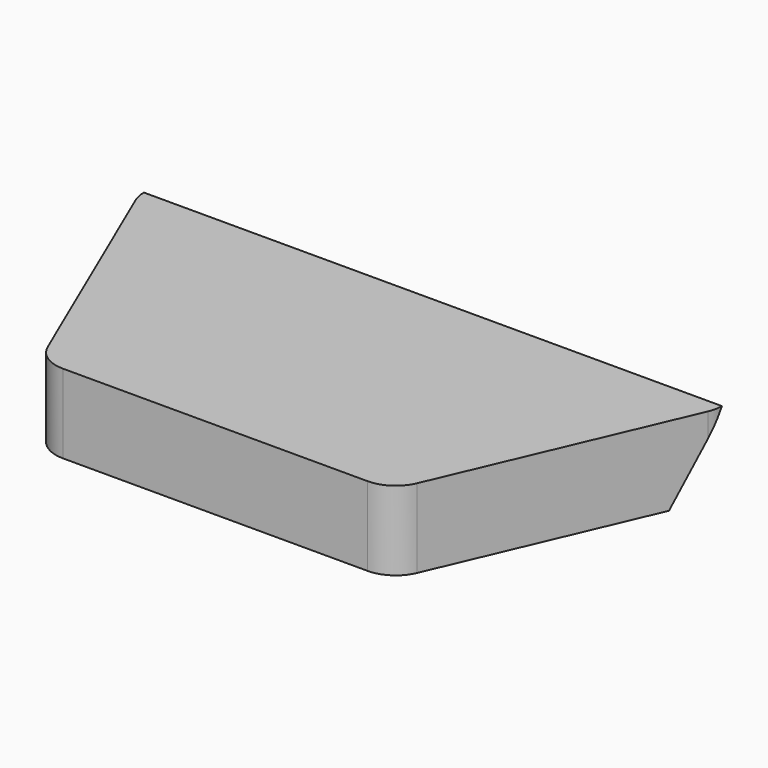
from build123d import *

# Parameters (mm, degrees)
F1_DEPTH = 18
F2_W     = 8
F2_H     = 18
F3_DEPTH = 70


with BuildPart() as f1:
    # F0 (on Top) → F1 (new body)
    with BuildSketch(Plane.XY):
        with BuildLine():
            Line((57.867688, 35), (-57.867688, 35))
            ThreePointArc((-57.867688, 35), (-64.546417, 31.403928), (-65.220848, 23.848646))
            Line((-65.220848, 23.848646), (-42.077991, -30.151354))
            ThreePointArc((-42.077991, -30.151354), (-39.128759, -33.678729), (-34.724831, -35))
            Line((-34.724831, -35), (34.724831, -35))
            ThreePointArc((34.724831, -35), (39.128759, -33.678729), (42.077991, -30.151354))
            Line((42.077991, -30.151354), (65.220848, 23.848646))
            ThreePointArc((65.220848, 23.848646), (64.546417, 31.403928), (57.867688, 35))
        make_face()
    extrude(amount=F1_DEPTH)

    # F2 (on Right) → F3 (cut, symmetric)
    with BuildSketch(Plane.YZ):
        Polygon((27, 18), (16.607695, 0), (27, 0), align=None)
        with Locations((31, 9)):
            Rectangle(F2_W, F2_H)
    extrude(amount=F3_DEPTH, both=True, mode=Mode.SUBTRACT)


solid = f1.part
